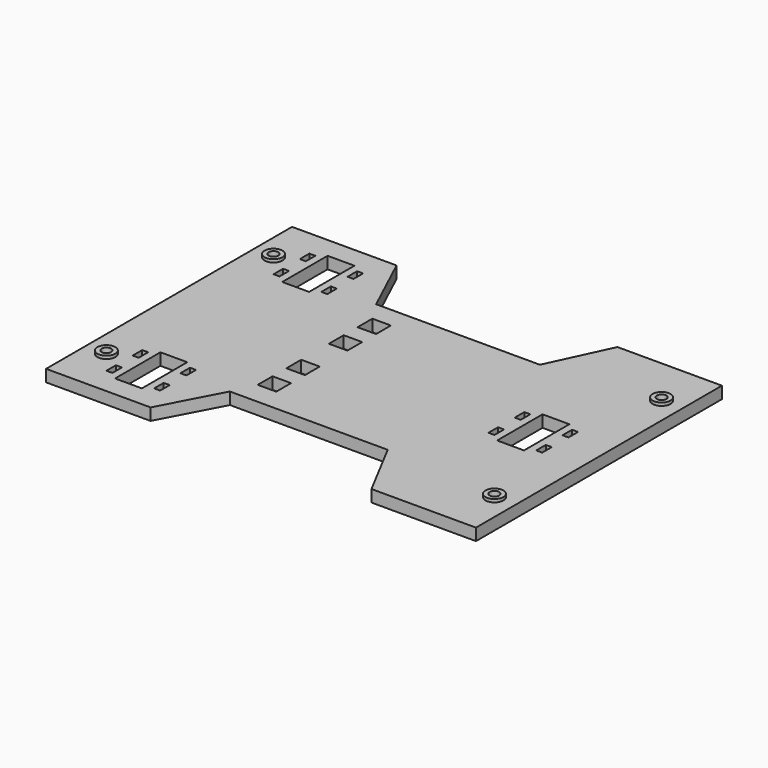
from build123d import *

# Parameters (mm, degrees)
SKETCH_R      = 1.6
SKETCH_W      = 9
SKETCH_H      = 19
SKETCH_W_2    = 6.2
SKETCH_H_2    = 6.2
PAD_DEPTH     = 4
SKETCH001_R   = 3
SKETCH001_R_2 = 1.6
PAD001_DEPTH  = 1
SKETCH002_W   = 2
SKETCH002_H   = 4
POCKET_DEPTH  = 4.001


with BuildPart() as part:
    # Sketch → Pad (new body)
    with BuildSketch(Plane.XY):
        Polygon((-72, 51.5), (-37, 51.5), (-27.440693, 31), (27.440693, 31), (37, 51.5), (72, 51.5), (72, -51.5), (37, -51.5), (26.434474, -31.5), (-26.434474, -31.5), (-37, -51.5), (-72, -51.5), align=None)
        with Locations((65, 35)):
            Circle(SKETCH_R, mode=Mode.SUBTRACT)
        with Locations((65, -35)):
            Circle(SKETCH_R, mode=Mode.SUBTRACT)
        with Locations((-65, 35)):
            Circle(SKETCH_R, mode=Mode.SUBTRACT)
        with Locations((-65, -35)):
            Circle(SKETCH_R, mode=Mode.SUBTRACT)
        with Locations((-50, 35)):
            Rectangle(SKETCH_W, SKETCH_H, mode=Mode.SUBTRACT)
        with Locations((-50, -35)):
            Rectangle(SKETCH_W, SKETCH_H, mode=Mode.SUBTRACT)
        with Locations((50, 0)):
            Rectangle(SKETCH_W, SKETCH_H, mode=Mode.SUBTRACT)
        with Locations((-20, 20.9)):
            Rectangle(SKETCH_W_2, SKETCH_H_2, mode=Mode.SUBTRACT)
        with Locations((-20, 8.9)):
            Rectangle(SKETCH_W_2, SKETCH_H_2, mode=Mode.SUBTRACT)
        with Locations((-20, -20.9)):
            Rectangle(SKETCH_W_2, SKETCH_H_2, mode=Mode.SUBTRACT)
        with Locations((-20, -8.9)):
            Rectangle(SKETCH_W_2, SKETCH_H_2, mode=Mode.SUBTRACT)
    extrude(amount=PAD_DEPTH)

    # Sketch001 → Pad001 (new body)
    with BuildSketch(Plane.XY.offset(4)):
        with Locations((65, 35)):
            Circle(SKETCH001_R)
        with Locations((65, 35)):
            Circle(SKETCH001_R_2, mode=Mode.SUBTRACT)
        with Locations((-65, 35)):
            Circle(SKETCH001_R)
        with Locations((-65, 35)):
            Circle(SKETCH001_R_2, mode=Mode.SUBTRACT)
        with Locations((-65, -35)):
            Circle(SKETCH001_R)
        with Locations((-65, -35)):
            Circle(SKETCH001_R_2, mode=Mode.SUBTRACT)
        with Locations((65, -35)):
            Circle(SKETCH001_R)
        with Locations((65, -35)):
            Circle(SKETCH001_R_2, mode=Mode.SUBTRACT)
    extrude(amount=PAD001_DEPTH)

    # Sketch002 → Pocket (cut, through all)
    with BuildSketch(Plane.XY.offset(4)):
        with Locations((-42, 40.5)):
            Rectangle(SKETCH002_W, SKETCH002_H)
        with Locations((-42, 29.5)):
            Rectangle(SKETCH002_W, SKETCH002_H)
        with Locations((-58, 40.5)):
            Rectangle(SKETCH002_W, SKETCH002_H)
        with Locations((-58, 29.5)):
            Rectangle(SKETCH002_W, SKETCH002_H)
        with Locations((42, 5.5)):
            Rectangle(SKETCH002_W, SKETCH002_H)
        with Locations((58, 5.5)):
            Rectangle(SKETCH002_W, SKETCH002_H)
        with Locations((58, -5.5)):
            Rectangle(SKETCH002_W, SKETCH002_H)
        with Locations((42, -5.5)):
            Rectangle(SKETCH002_W, SKETCH002_H)
        with Locations((-42, -29.5)):
            Rectangle(SKETCH002_W, SKETCH002_H)
        with Locations((-58, -29.5)):
            Rectangle(SKETCH002_W, SKETCH002_H)
        with Locations((-42, -40.5)):
            Rectangle(SKETCH002_W, SKETCH002_H)
        with Locations((-58, -40.5)):
            Rectangle(SKETCH002_W, SKETCH002_H)
    extrude(amount=-POCKET_DEPTH, mode=Mode.SUBTRACT)


solid = part.part
